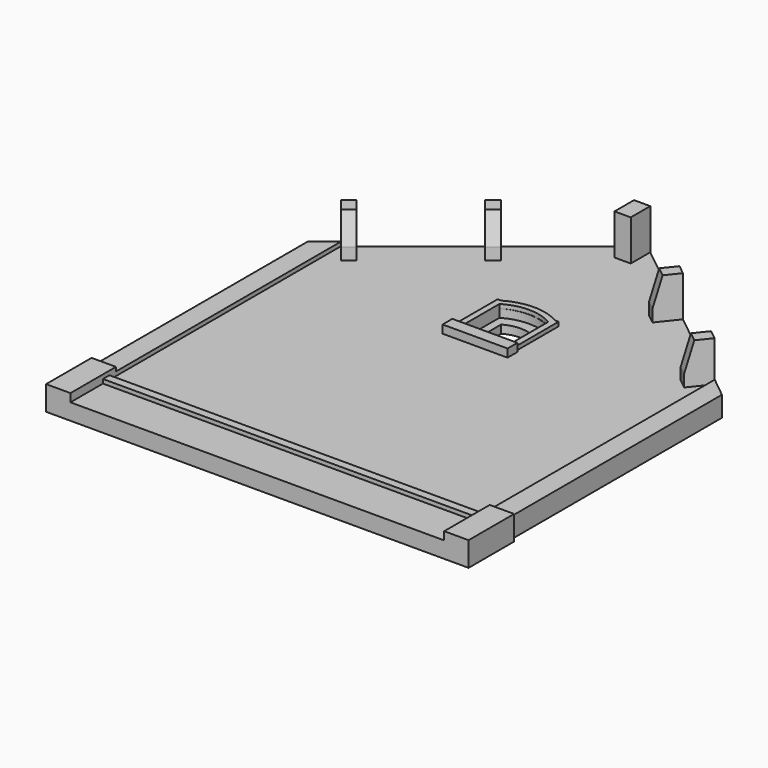
from build123d import *

# Parameters (mm, degrees)
PAD_DEPTH       = 2
POCKET_DEPTH    = 1
POCKET001_DEPTH = 5
SKETCH003_W     = 8
SKETCH003_H     = 1.5
PAD001_DEPTH    = 1
SKETCH006_W     = 3
SKETCH006_H     = 7
PAD004_DEPTH    = 3
PAD005_DEPTH    = 2.5
SKETCH008_W     = 46
SKETCH008_H     = 1
PAD006_DEPTH    = 0.5
PAD008_DEPTH    = 0.5
SKETCH013_W     = 2
SKETCH013_H     = 3.0000000001
PAD009_DEPTH    = 5
POCKET002_DEPTH = 20
POCKET003_DEPTH = 20


with BuildPart() as part:
    # Sketch → Pad (new body)
    with BuildSketch(Plane.XY):
        Polygon((-25, -20), (25, -20), (25, 20), (0, 40), (-25, 20), align=None)
    extrude(amount=PAD_DEPTH)

    # Sketch001 → Pocket (cut)
    with BuildSketch(Plane.XY.offset(2)):
        with BuildLine():
            Line((-3, 15), (3, 15))
            Line((3, 15), (3, 21))
            ThreePointArc((3, 21), (0, 21.8038475773), (-3, 21))
            Line((-3, 15), (-3, 21))
        make_face()
    extrude(amount=-POCKET_DEPTH, mode=Mode.SUBTRACT)

    # Sketch002 → Pocket001 (cut)
    with BuildSketch(Plane.XY.offset(1)):
        with BuildLine():
            Line((-2, 16), (2, 16))
            Line((2, 16), (2, 20))
            ThreePointArc((2, 20), (0, 20.5358983849), (-2, 20))
            Line((-2, 16), (-2, 20))
        make_face()
    extrude(amount=-POCKET001_DEPTH, mode=Mode.SUBTRACT)

    # Sketch003 → Pad001 (new body)
    with BuildSketch(Plane.XY.offset(2)):
        with Locations((0, 14.25)):
            Rectangle(SKETCH003_W, SKETCH003_H)
    extrude(amount=PAD001_DEPTH)

    # Sketch006 → Pad004 (new body)
    with BuildSketch(Plane(origin=(0, 0, 0), x_dir=(1, 0, 0), z_dir=(0, 0, -1))):
        with Locations((-24.5, 16.5)):
            Rectangle(SKETCH006_W, SKETCH006_H)
        with Locations((24.5, 16.5)):
            Rectangle(SKETCH006_W, SKETCH006_H)
    extrude(amount=-PAD004_DEPTH)

    # Sketch007 → Pad005 (new body)
    with BuildSketch(Plane(origin=(0, 0, 0), x_dir=(1, 0, 0), z_dir=(0, 0, -1))):
        Polygon((-25.5, 20), (-23, 20), (-23, -21.624460083), (-25.5, -19.6), align=None)
        Polygon((23, 20), (25.5, 20), (25.5, -19.6), (23, -21.624460083), align=None)
    extrude(amount=-PAD005_DEPTH)

    # Sketch008 → Pad006 (new body)
    with BuildSketch(Plane.XY.offset(2)):
        with Locations((0, -14.5)):
            Rectangle(SKETCH008_W, SKETCH008_H)
    extrude(amount=PAD006_DEPTH)

    # Sketch012 → Pad008 (new body)
    with BuildSketch(Plane.XY.offset(2)):
        with BuildLine():
            Line((3.3030993045, 21.6561501911), (3.75, 21.6561501911))
            Line((3.75, 21.6561501911), (3.75, 15))
            Line((3.75, 15), (3, 15))
            Line((3, 15), (3, 21))
            ThreePointArc((3, 21), (0, 21.8309518948), (-3, 21))
            Line((-3, 21), (-3, 15))
            Line((-3, 15), (-3.75, 15))
            Line((-3.75, 15), (-3.75, 21.6561501911))
            Line((-3.75, 21.6561501911), (-3.3030993046, 21.6561501911))
            ThreePointArc((-3.3030993046, 21.6561501911), (0, 22.55), (3.3030993045, 21.6561501911))
        make_face()
    extrude(amount=PAD008_DEPTH)

    # Sketch013 → Pad009 (new body)
    with BuildSketch(Plane.XY.offset(2)):
        Polygon((-23, 21.6), (-21.1259148573, 19.2573935717), (-19.9546116432, 20.194436143), (-21.8286967858, 22.5370425713), align=None)
        Polygon((-12.1713032142, 30.2629574287), (-11, 31.2), (-9.1259148573, 28.8573935717), (-10.2972180715, 27.9203510003), align=None)
        with Locations((0, 37.7)):
            Rectangle(SKETCH013_W, SKETCH013_H)
        Polygon((11, 31.2), (12.1713032142, 30.2629574287), (10.2972180715, 27.9203510003), (9.1259148573, 28.8573935717), align=None)
        Polygon((21.8286967858, 22.5370425713), (23, 21.6), (21.1259148573, 19.2573935717), (19.9546116432, 20.194436143), align=None)
    extrude(amount=PAD009_DEPTH)

    # Sketch014 → Pocket002 (cut)
    with BuildSketch(Plane(origin=(-3.487804878, -2.7902439024, 0), x_dir=(0.6246950476, -0.7808688094, 0), z_dir=(-0.7808688094, -0.6246950476, 0))):
        Polygon((-29.2347523777, 7), (-28.2347523777, 7), (-28.2347523777, 3.5), align=None)
    extrude(amount=-POCKET002_DEPTH, mode=Mode.SUBTRACT)

    # Sketch015 → Pocket003 (cut)
    with BuildSketch(Plane(origin=(3.487804878, -2.7902439024, 0), x_dir=(0.6246950476, 0.7808688094, 0), z_dir=(0.7808688094, -0.6246950476, 0))):
        Polygon((29.2347523777, 7), (28.2347523777, 7), (28.2347523777, 3.5), align=None)
    extrude(amount=-POCKET003_DEPTH, mode=Mode.SUBTRACT)


solid = part.part
